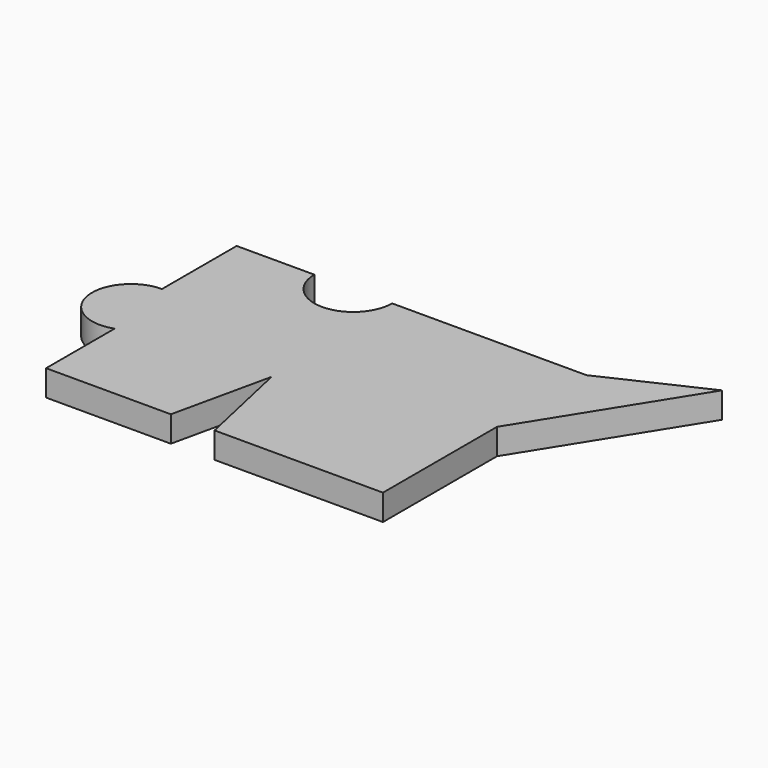
from build123d import *

# Parameters (mm, degrees)
PAD_DEPTH = 10


with BuildPart() as part:
    # Sketch → Pad (new body)
    with BuildSketch(Plane.XY):
        with BuildLine():
            Line((111.489324, 77.916617), (73.424397, 60.16665))
            Line((73.424397, 60.16665), (-1.575603, 60.16665))
            ThreePointArc((-31.575603, 60.16665), (-16.575603, 45.16665), (-1.575603, 60.16665))
            Line((-31.575603, 60.16665), (-61.575603, 60.16665))
            Line((-61.575603, 60.16665), (-61.575603, 24.16665))
            ThreePointArc((-61.575603, 24.16665), (-76.359581, 6.63012), (-56.575603, -4.975486))
            Line((-56.575603, -4.975486), (-56.575603, -38))
            Line((-56.575603, -38), (-8.424397, -38))
            Line((-8.424397, -38), (0, 0))
            Line((0, 0), (8.424397, -38))
            Line((8.424397, -38), (73.424397, -38))
            Line((73.424397, -38), (73.424397, 17))
            Line((73.424397, 17), (111.489324, 77.916617))
        make_face()
    extrude(amount=PAD_DEPTH)


solid = part.part
